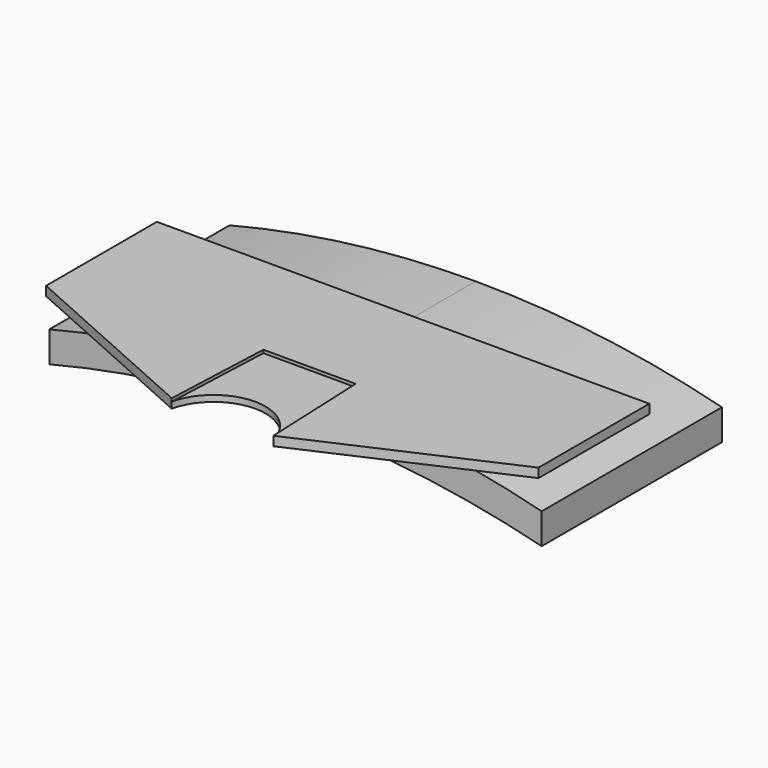
from build123d import *

# Parameters (mm, degrees)
F1_DEPTH = 1.5
F2_DEPTH = 1
F4_DEPTH = 36.6


with BuildPart() as f1:
    # F0 (on Top) → F1 (new body)
    with BuildSketch(Plane.XY):
        Polygon((12.250248, 2.852923), (13.000248, -14.81951), (44.750248, -0.647077), (44.750248, 21.852923), (-35.249752, 21.852923), (-35.249752, -0.647077), (-3.499752, -14.81951), (-2.749752, 2.852923), (4.750248, 2.852923), align=None)
    extrude(amount=F1_DEPTH)

    # F0 (on Top) → F2 (join)
    with BuildSketch(Plane.XY):
        with BuildLine():
            ThreePointArc((-3.499752, -14.81951), (4.750248, -8.197077), (13.000248, -14.81951))
            Line((13.000248, -14.81951), (12.250248, 2.852923))
            Line((12.250248, 2.852923), (4.750248, 2.852923))
            Line((4.750248, 2.852923), (-2.749752, 2.852923))
            Line((-2.749752, 2.852923), (-3.499752, -14.81951))
        make_face()
    extrude(amount=F2_DEPTH)


with BuildPart() as f4:
    # F3 (on Front) → F4 (new body)
    with BuildSketch(Plane.XZ):
        with BuildLine():
            Line((-35.249752, -5), (-35.249752, -10))
            ThreePointArc((-35.249752, -10), (4.750248, -5), (44.750248, -10))
            Line((44.750248, -10), (44.750248, -5))
            ThreePointArc((44.750248, -5), (24.905892, -1.254845), (4.750248, 0))
            ThreePointArc((4.750248, 0), (-15.405396, -1.254845), (-35.249752, -5))
        make_face()
    extrude(amount=-F4_DEPTH)


solid = Compound([f1.part, f4.part])
